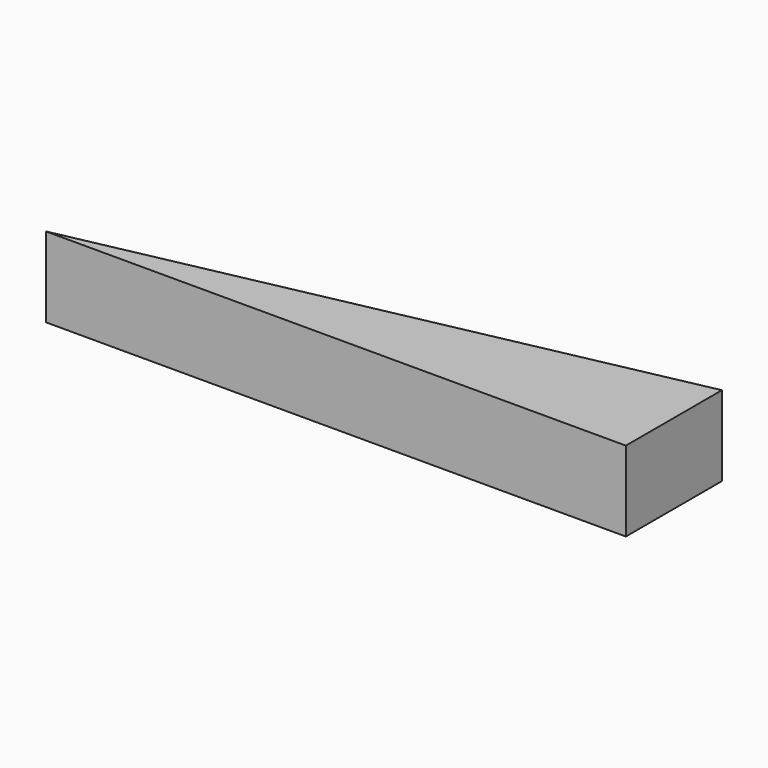
from build123d import *

# Parameters (mm, degrees)
PAD_DEPTH = 20


with BuildPart() as part:
    # Sketch → Pad (new body)
    with BuildSketch(Plane.XY):
        Polygon((0, 0), (144.864521, 0), (144.864521, 30), align=None)
    extrude(amount=PAD_DEPTH)


solid = part.part
